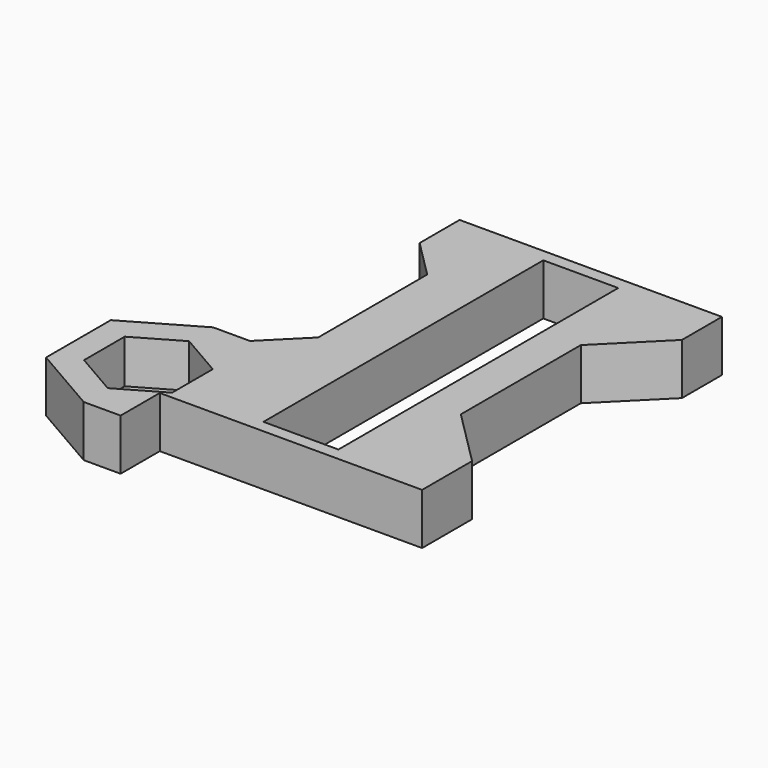
from build123d import *

# Parameters (mm, degrees)
SKETCH_R        = 2.25
SKETCH_W        = 6
SKETCH_H        = 28
PAD_DEPTH       = 4.1
POCKET_DEPTH    = 3.5
SKETCH003_W     = 21
SKETCH003_H     = 4.1
POCKET001_DEPTH = 1
SKETCH002_R     = 2.25
PAD001_DEPTH    = 0.3


with BuildPart() as part:
    # Sketch → Pad (new body)
    with BuildSketch(Plane.XY):
        Polygon((-10.5, 15.5), (10.5, 15.5), (10.5, 10.499836), (6, 5.999836), (6, -5.999836), (10.5, -10.499836), (10.5, -15.5), (-10.5, -15.5), (-10.5, -17.717136), (-10.5, -19.420319), (-13.45, -19.420319), (-19.053461, -16.18516), (-19.053461, -9.71484), (-13.45, -6.479681), (-10.500002, -6.479681), (-7.46388, -3.443559), (-7.46388, 7.463716), (-10.5, 10.499836), align=None)
        with Locations((-13.45, -12.95)):
            Circle(SKETCH_R, mode=Mode.SUBTRACT)
        with Locations((0, -0.5)):
            Rectangle(SKETCH_W, SKETCH_H, mode=Mode.SUBTRACT)
    extrude(amount=PAD_DEPTH)

    # Sketch001 → Pocket (cut)
    with BuildSketch(Plane.XY.offset(4.1)):
        Polygon((-13.45, -17.020319), (-9.925, -14.98516), (-9.925, -10.91484), (-13.45, -8.879681), (-16.975, -10.91484), (-16.975, -14.98516), align=None)
    extrude(amount=-POCKET_DEPTH, mode=Mode.SUBTRACT)

    # Sketch003 → Pocket001 (cut)
    with BuildSketch(Plane(origin=(0, 15.5, 0), x_dir=(-1, 0, 0), z_dir=(0, 1, 0))):
        with Locations((0, 2.05)):
            Rectangle(SKETCH003_W, SKETCH003_H)
    extrude(amount=-POCKET001_DEPTH, mode=Mode.SUBTRACT)

    # Sketch002 → Pad001 (new body)
    with BuildSketch(Plane.XY.offset(0.6)):
        with Locations((-13.45, -12.95)):
            Circle(SKETCH002_R)
    extrude(amount=-PAD001_DEPTH)


solid = part.part
